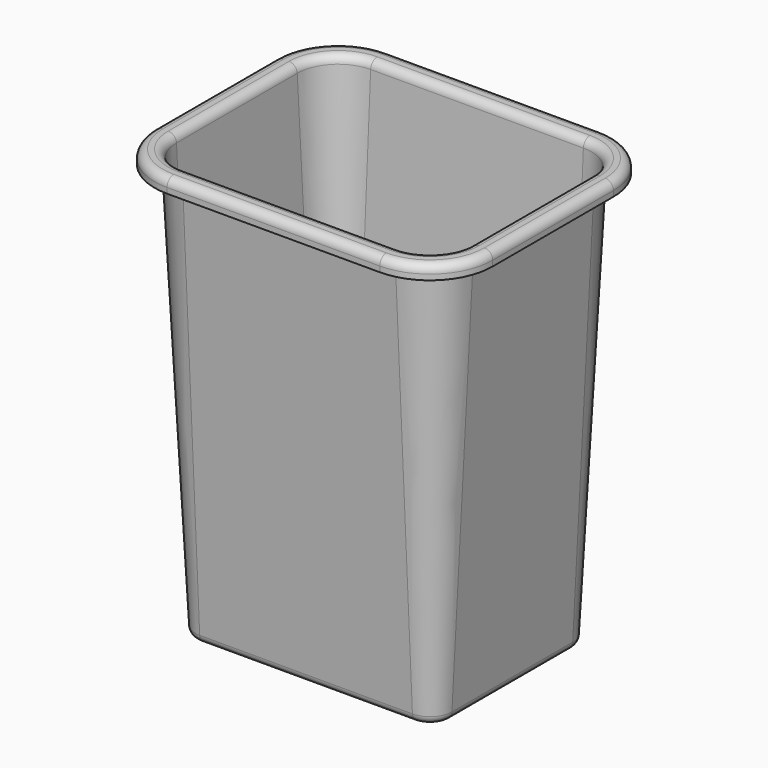
from build123d import *

# Parameters (mm, degrees)
F3_DEPTH = 6.35


with BuildPart() as f2:
    # F2: sweep along a path in F1
    with BuildLine(Plane.XY) as f2_path:
        Line((0, -139.7), (0, 0))
        ThreePointArc((0, 0), (-1.8598719395, 4.4901280605), (-6.35, 6.35))
        Line((-6.35, 6.35), (-203.2, 6.35))
        ThreePointArc((-203.2, 6.35), (-207.6901280605, 4.4901280605), (-209.55, 0))
        Line((-209.55, 0), (-209.55, -139.7))
        ThreePointArc((-209.55, -139.7), (-207.6901280605, -144.1901280605), (-203.2, -146.05))
        Line((-203.2, -146.05), (-6.35, -146.05))
        ThreePointArc((-6.35, -146.05), (-1.8598719395, -144.1901280605), (0, -139.7))
    # F0 (on Front) → F2 (sweep)
    with BuildSketch(Plane.XZ):
        with BuildLine():
            Line((6.35, 2.54), (0, 2.54))
            Line((0, 2.54), (0, 0))
            Line((0, 0), (6.35, 0))
            ThreePointArc((6.35, 0), (11.5952618668, 2.0926472929), (13.9595570548, 7.2212000134))
            Line((13.9595570548, 7.2212000134), (33.8995563834, 387.6990527549))
            ThreePointArc((33.8995563834, 387.6990527549), (35.4757531754, 391.1180879019), (38.9725944199, 392.5131860972))
            Line((38.9725944199, 392.5131860972), (44.0525944199, 392.5131860972))
            ThreePointArc((44.0525944199, 392.5131860972), (47.6446968684, 391.0252885456), (49.1325944199, 387.4331860972))
            Line((49.1325944199, 387.4331860972), (49.1325944199, 382.3531860972))
            Line((49.1325944199, 382.3531860972), (51.6725944199, 382.3531860972))
            Line((51.6725944199, 382.3531860972), (51.6725944199, 387.4331860972))
            ThreePointArc((51.6725944199, 387.4331860972), (49.4407480926, 392.8213397698), (44.0525944199, 395.0531860972))
            Line((44.0525944199, 395.0531860972), (38.9725944199, 395.0531860972))
            ThreePointArc((38.9725944199, 395.0531860972), (33.7273325532, 392.9605388043), (31.3630373651, 387.8319860838))
            Line((31.3630373651, 387.8319860838), (11.4230380366, 7.3541333423))
            ThreePointArc((11.4230380366, 7.3541333423), (9.8468412445, 3.9350981953), (6.35, 2.54))
        make_face()
    sweep(path=f2_path.line)


with BuildPart() as f3:
    # F1 (on Top) → F3 (new body)
    with BuildSketch(Plane.XY):
        with BuildLine():
            ThreePointArc((-6.35, -146.05), (-1.8598719395, -144.1901280605), (0, -139.7))
            Line((0, -139.7), (0, 0))
            ThreePointArc((0, 0), (-1.8598719395, 4.4901280605), (-6.35, 6.35))
            Line((-6.35, 6.35), (-203.2, 6.35))
            ThreePointArc((-203.2, 6.35), (-207.6901280605, 4.4901280605), (-209.55, 0))
            Line((-209.55, 0), (-209.55, -139.7))
            ThreePointArc((-209.55, -139.7), (-207.6901280605, -144.1901280605), (-203.2, -146.05))
            Line((-203.2, -146.05), (-6.35, -146.05))
        make_face()
    extrude(amount=F3_DEPTH)


solid = Compound([f2.part, f3.part])
